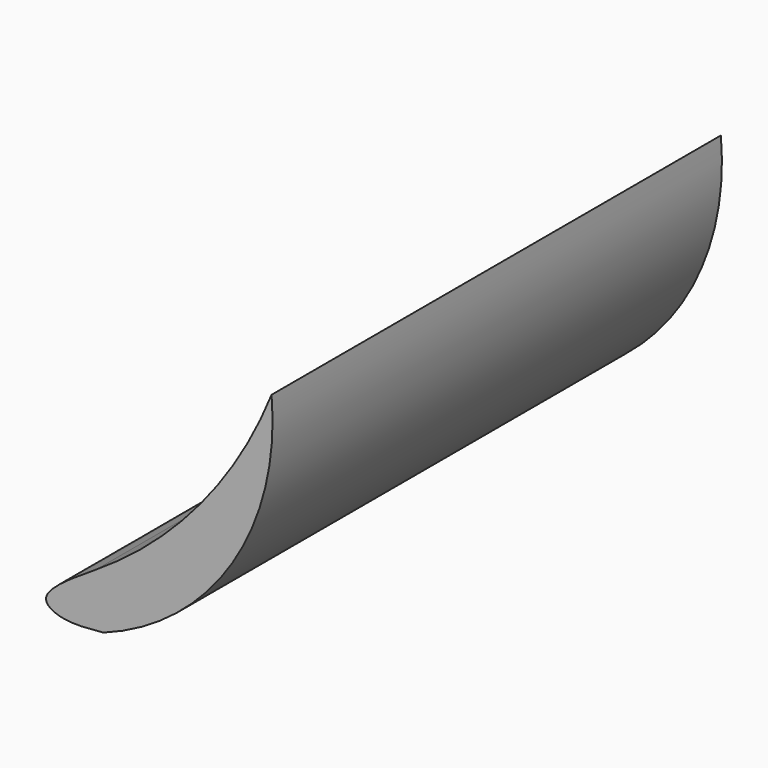
from build123d import *

# Parameters (mm, degrees)
F2_DEPTH = 250


with BuildPart() as f2:
    # F1 (on offset) → F2 (new body)
    with BuildSketch(Plane.XZ.offset(-253)):
        with BuildLine():
            add(Edge.make_bspline(
                [(-922.654, 240.763), (-929.3918160748, 240.1097722886), (-940.5825648962, 239.0248350982), (-953.9343532769, 246.5687266777), (-936.94985514, 257.368378949), (-925.874, 264.411)],
                knots=[0, 0, 0, 0, 0.3448596566, 0.5727728025, 1, 1, 1, 1], degree=3))
            ThreePointArc((-922.654, 240.763), (-865.2121288575, 286.7918913684), (-847.79, 358.309))
            ThreePointArc((-847.79, 358.309), (-879.4786078216, 305.2450425477), (-925.874, 264.411))
        make_face()
    extrude(amount=-F2_DEPTH)


solid = f2.part
